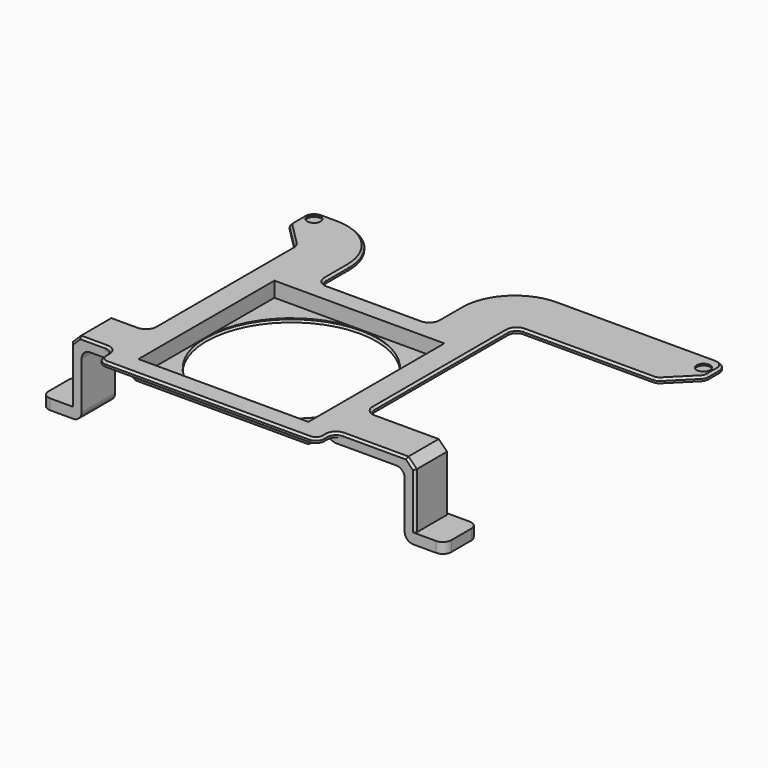
from build123d import *

# Parameters (mm, degrees)
SKETCH002_R      = 1.8
SKETCH002_W      = 81
SKETCH002_H      = 81
PAD_DEPTH        = 2
SKETCH003_R      = 3.2
POCKET_DEPTH     = 0.8
SKETCH006_R      = 1.8
PAD002_DEPTH     = 0.12
PAD001_DEPTH     = 20
CHAMFER001_SIZE2 = 2.99
CHAMFER001_SIZE  = 7.5
CHAMFER002_SIZE  = 4
FILLET_R         = 4
CHAMFER003_SIZE  = 1
SKETCH005_R      = 2.2
POCKET001_DEPTH  = 33.501
SKETCH010_R      = 2.2
PAD006_DEPTH     = 0.12
SKETCH007_W      = 85
SKETCH007_H      = 85
SKETCH007_W_2    = 81
SKETCH007_H_2    = 81
PAD003_DEPTH     = 7
SKETCH008_W      = 81
SKETCH008_H      = 81
SKETCH008_R      = 2.5
PAD004_DEPTH     = 1.8
CHAMFER_SIZE     = 1.2
SKETCH009_R      = 2.5
PAD005_DEPTH     = 0.12
FILLET001_R      = 2


with BuildPart() as part:
    # Sketch002 → Pad (new body)
    with BuildSketch(Plane.XY):
        with BuildLine():
            Line((-65, 88.5), (-65, 80))
            Line((-65, 80), (-52.5, 67.5))
            Line((-52.5, 67.5), (-52.5, -20))
            Line((-52.5, -20), (-73, -20))
            Line((-73, -20), (-73, -40))
            Line((-73, -40), (-52.5, -40))
            Line((-52.5, -40), (-52.5, -50))
            Line((-52.5, -50), (52.5, -50))
            Line((52.5, -50), (52.5, -40))
            Line((52.5, -40), (91, -40))
            Line((91, -40), (91, -20))
            Line((91, -20), (52.5, -20))
            Line((52.5, -20), (52.5, 67.5))
            Line((52.5, 67.5), (120, 67.5))
            Line((120, 67.5), (133, 80.5))
            Line((133, 80.5), (133, 88.5))
            ThreePointArc((133, 88.5), (131.535534, 92.035534), (128, 93.5))
            Line((128, 93.5), (52.5, 93.5))
            ThreePointArc((52.5, 93.5), (34.115224, 85.884776), (26.5, 67.5))
            Line((26.5, 50), (26.5, 67.5))
            Line((-26.5, 50), (26.5, 50))
            Line((-26.5, 67.5), (-26.5, 50))
            ThreePointArc((-26.5, 67.5), (-34.115224, 85.884776), (-52.5, 93.5))
            Line((-60, 93.5), (-52.5, 93.5))
            ThreePointArc((-60, 93.5), (-63.535534, 92.035534), (-65, 88.5))
        make_face()
        with Locations((-60, 88.5)):
            Circle(SKETCH002_R, mode=Mode.SUBTRACT)
        with Locations((128, 85.5)):
            Circle(SKETCH002_R, mode=Mode.SUBTRACT)
        Rectangle(SKETCH002_W, SKETCH002_H, mode=Mode.SUBTRACT)
    extrude(amount=PAD_DEPTH)

    # Sketch003 → Pocket (cut)
    with BuildSketch(Plane.XY.offset(2)):
        with Locations((-60, 88.5)):
            Circle(SKETCH003_R)
        with Locations((128, 85.5)):
            Circle(SKETCH003_R)
    extrude(amount=-POCKET_DEPTH, mode=Mode.SUBTRACT)

    # Sketch006 → Pad002 (join)
    with BuildSketch(Plane.XY.offset(1.2)):
        with Locations((-60, 88.5)):
            Circle(SKETCH006_R)
        with Locations((128, 85.5)):
            Circle(SKETCH006_R)
    extrude(amount=-PAD002_DEPTH)

    # Sketch004 (on DatumPlane) → Pad001 (join)
    with BuildSketch(Plane(origin=(-87, -40, 0), x_dir=(-1, 0, 0), z_dir=(0, 1, 0))):
        Polygon((-178, 0), (-139.5, 0), (-139.5, -3), (-173, -3), (-173, -33.5), (-192, -33.5), (-192, -28.5), (-178, -28.5), align=None)
        Polygon((-14, 0), (-34.5, 0), (-34.5, -3), (-19, -3), (-19, -33.5), (0, -33.5), (0, -28.5), (-14, -28.5), align=None)
    extrude(amount=PAD001_DEPTH)

    # Chamfer001
    chamfer001_edges = [part.edges().sort_by_distance(p)[0] for p in [
        (-52.5, -30, 0),
        (52.5, -30, 0),
    ]]
    chamfer001_side = part.faces().sort_by_distance((-56.25, 91.054673, 0))[0]
    chamfer(chamfer001_edges, length=CHAMFER001_SIZE, length2=CHAMFER001_SIZE2, reference=chamfer001_side)

    # Chamfer002
    chamfer002_edges = [part.edges().sort_by_distance(p)[0] for p in [
        (91, -30, 2),
        (-73, -30, 2),
    ]]
    chamfer(chamfer002_edges, length=CHAMFER002_SIZE)

    # Fillet
    fillet_edges = [part.edges().sort_by_distance(p)[0] for p in [
        (105, -40, -31),
        (-87, -40, -31),
        (-68, -30, -33.5),
        (86, -30, -33.5),
        (-87, -20, -31),
        (105, -20, -31),
        (86, -30, -3),
        (-68, -30, -3),
        (52.5, -20, 1),
        (52.5, -40, 1),
        (52.5, -50, 1),
        (-52.5, -50, 1),
        (-52.5, -40, 1),
        (-26.5, 50, 1),
        (26.5, 50, 1),
        (52.5, 67.5, 1),
        (120, 67.5, 1),
        (133, 80.5, 1),
        (-52.5, 67.5, 1),
        (-65, 80, 1),
        (-52.5, -20, 1),
    ]]
    fillet(fillet_edges, radius=FILLET_R)

    # Chamfer003
    chamfer003_edges = [part.edges().sort_by_distance(p)[0] for p in [
        (0, 50, 2),
        (0, -50, 2),
        (91, -40, -15.25),
        (89, -40, 0),
        (89, -20, 0),
        (91, -20, -15.25),
        (-71, -40, 0),
        (-71, -20, 0),
        (-73, -20, -15.25),
        (-73, -40, -15.25),
    ]]
    chamfer(chamfer003_edges, length=CHAMFER003_SIZE)

    # Sketch005 → Pocket001 (cut, through all)
    with BuildSketch(Plane.XY):
        with Locations((-80, -30)):
            Circle(SKETCH005_R)
        with Locations((98, -30)):
            Circle(SKETCH005_R)
    extrude(amount=-POCKET001_DEPTH, mode=Mode.SUBTRACT)

    # Sketch010 (on Face105 of Pocket001) → Pad006 (join)
    with BuildSketch(Plane.XY.offset(-28.5)):
        with Locations((-80, -30)):
            Circle(SKETCH010_R)
        with Locations((98, -30)):
            Circle(SKETCH010_R)
    extrude(amount=-PAD006_DEPTH)

    # Sketch007 → Pad003 (join)
    with BuildSketch(Plane.XY):
        Rectangle(SKETCH007_W, SKETCH007_H)
        Rectangle(SKETCH007_W_2, SKETCH007_H_2, mode=Mode.SUBTRACT)
    extrude(amount=-PAD003_DEPTH)

    # Sketch008 → Pad004 (join)
    with BuildSketch(Plane.XY.offset(-7)):
        Rectangle(SKETCH008_W, SKETCH008_H)
        with Locations((-35.7, 35.7)):
            Circle(SKETCH008_R, mode=Mode.SUBTRACT)
        with Locations((35.7, 35.7)):
            Circle(SKETCH008_R, mode=Mode.SUBTRACT)
        with Locations((35.7, -35.7)):
            Circle(SKETCH008_R, mode=Mode.SUBTRACT)
        with Locations((-35.7, -35.7)):
            Circle(SKETCH008_R, mode=Mode.SUBTRACT)
    extrude(amount=PAD004_DEPTH)

    # Chamfer
    chamfer_edges = [part.edges().sort_by_distance(p)[0] for p in [
        (33.2, 35.7, -7),
        (-38.2, 35.7, -7),
        (-38.2, -35.7, -7),
        (33.2, -35.7, -7),
    ]]
    chamfer(chamfer_edges, length=CHAMFER_SIZE)

    # Sketch009 → Pad005 (join)
    with BuildSketch(Plane.XY.offset(-5.2)):
        with Locations((-35.7, 35.7)):
            Circle(SKETCH009_R)
        with Locations((35.7, 35.7)):
            Circle(SKETCH009_R)
        with Locations((35.7, -35.7)):
            Circle(SKETCH009_R)
        with Locations((-35.7, -35.7)):
            Circle(SKETCH009_R)
    extrude(amount=-PAD005_DEPTH)

    # Fillet001
    fillet001_edges = [part.edges().sort_by_distance(p)[0] for p in [
        (42.5, 42.5, -3.5),
        (-42.5, 42.5, -3.5),
        (0, 42.5, 0),
        (0, 42.5, -7),
        (-42.5, -42.5, -3.5),
        (-42.5, 0, 0),
        (-42.5, 0, -7),
        (42.5, -42.5, -3.5),
        (0, -42.5, 0),
        (0, -42.5, -7),
        (42.5, 0, 0),
        (42.5, 0, -7),
    ]]
    fillet(fillet001_edges, radius=FILLET001_R)

    # Sketch016 → Groove (revolve, cut)
    with BuildSketch(Plane.XZ):
        Polygon((0, -7), (-40.5, -7), (-41.25519, -6.1), (-40.5, -5.2), (0, -5.2), align=None)
    revolve(axis=Axis((0, 0, 0), (0, 0, 1)), mode=Mode.SUBTRACT)


solid = part.part
